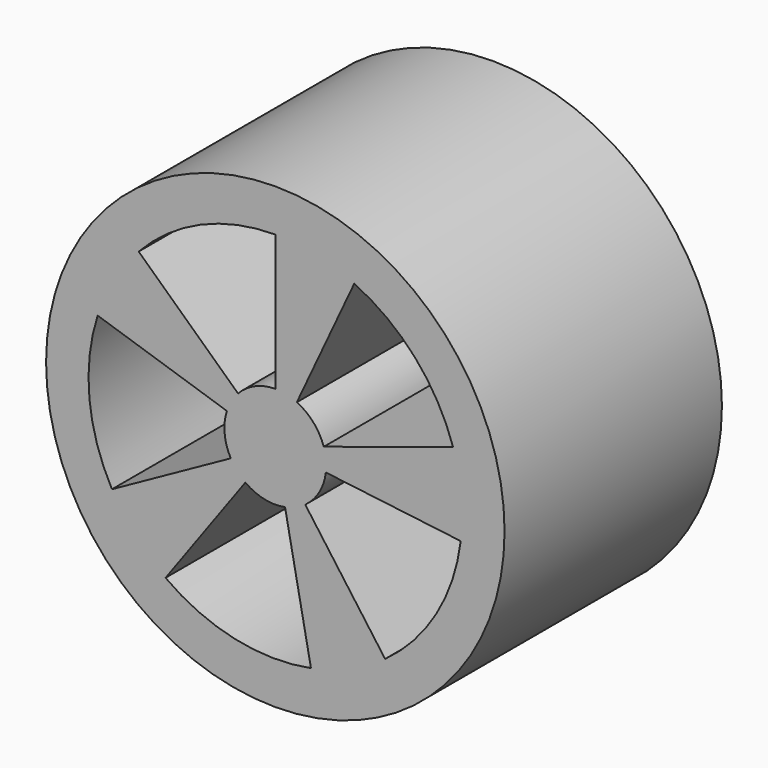
from build123d import *

# Parameters (mm, degrees)
F0_R     = 6.75
F1_DEPTH = 8
F3_DEPTH = 8.001


with BuildPart() as f1:
    # F0 (on Front) → F1 (new body)
    with BuildSketch(Plane.XZ):
        with Locations((-22.467263, 19.054513)):
            Circle(F0_R)
    extrude(amount=F1_DEPTH)

    # F2 (on face) → F3 (cut, through all)
    with BuildSketch(Plane.XZ.offset(8)):
        with BuildLine():
            Line((-22.467263, 20.554513), (-22.467263, 24.554513))
            ThreePointArc((-22.467263, 24.554513), (-24.660383, 24.098344), (-26.489708, 22.805504))
            Line((-26.489708, 22.805504), (-23.564294, 20.077511))
            ThreePointArc((-23.564294, 20.077511), (-23.065387, 20.430104), (-22.467263, 20.554513))
        make_face()
        with BuildLine():
            Line((-21.040678, 19.518039), (-17.236452, 20.754107))
            ThreePointArc((-17.236452, 20.754107), (-18.348007, 22.698924), (-20.142863, 24.039206))
            Line((-20.142863, 24.039206), (-21.833336, 20.413975))
            ThreePointArc((-21.833336, 20.413975), (-21.343829, 20.048443), (-21.040678, 19.518039))
        make_face()
        with BuildLine():
            ThreePointArc((-19.234444, 14.60492), (-17.728303, 16.263052), (-17.008259, 18.384232))
            Line((-17.008259, 18.384232), (-20.978444, 18.871709))
            ThreePointArc((-20.978444, 18.871709), (-21.174819, 18.293206), (-21.585585, 17.840988))
            Line((-21.585585, 17.840988), (-19.234444, 14.60492))
        make_face()
        with BuildLine():
            ThreePointArc((-25.700082, 14.60492), (-23.657681, 13.684885), (-21.417814, 13.655564))
            Line((-21.417814, 13.655564), (-22.18105, 17.582073))
            ThreePointArc((-22.18105, 17.582073), (-22.791922, 17.590069), (-23.348941, 17.840988))
            Line((-23.348941, 17.840988), (-25.700082, 14.60492))
        make_face()
        with BuildLine():
            Line((-23.893848, 19.518039), (-27.698074, 20.754107))
            ThreePointArc((-27.698074, 20.754107), (-27.941942, 18.527362), (-27.277671, 16.388061))
            Line((-27.277671, 16.388061), (-23.779193, 18.327299))
            ThreePointArc((-23.779193, 18.327299), (-23.960357, 18.910745), (-23.893848, 19.518039))
        make_face()
    extrude(amount=-F3_DEPTH, mode=Mode.SUBTRACT)


solid = f1.part
